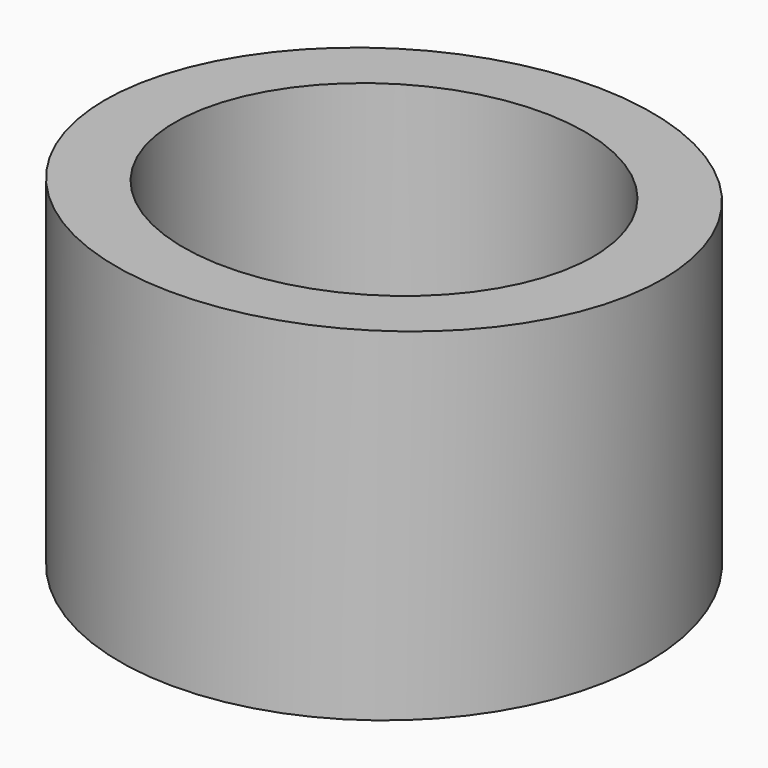
from build123d import *

# Parameters (mm, degrees)
F0_R     = 12.7
F0_R_2   = 9.525
F1_DEPTH = 50.8
F3_DEPTH = 12.7


with BuildPart() as f1:
    # F0 (on Top) → F1 (new body)
    with BuildSketch(Plane.XY):
        Circle(F0_R)
        Circle(F0_R_2, mode=Mode.SUBTRACT)
    extrude(amount=F1_DEPTH)

    # F2 (on Right) → F3 (cut, symmetric)
    with BuildSketch(Plane.YZ):
        Polygon((-50.8, 59.308998), (-50.8, 44.45), (0, 41.275), (50.8, 38.1), (50.8, 59.308998), align=None)
        Polygon((-50.8, 19.05), (0, 15.875), (50.8, 12.7), (50.8, 38.1), (0, 41.275), (-50.8, 44.45), align=None)
    extrude(amount=F3_DEPTH, both=True, mode=Mode.SUBTRACT)


solid = f1.part
